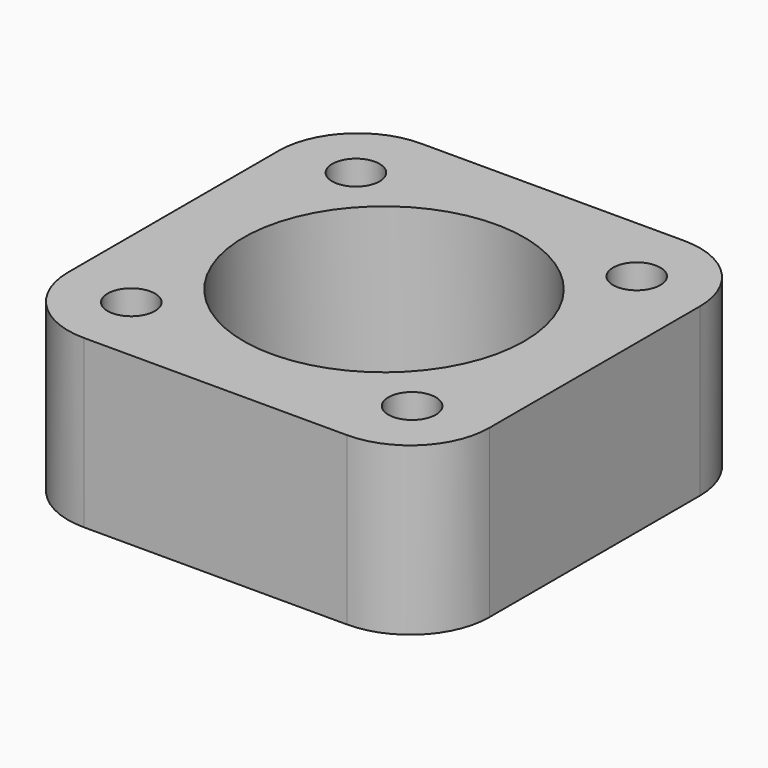
from build123d import *

# Parameters (mm, degrees)
F0_W     = 24
F0_H     = 24
F1_DEPTH = 9.5
F2_R     = 4.5
F4_R     = 8
F5_DEPTH = 9.501
F3_R     = 1.35
F6_DEPTH = 9.501


with BuildPart() as f1:
    # F0 (on Top) → F1 (new body)
    with BuildSketch(Plane.XY):
        with Locations((12, 12)):
            Rectangle(F0_W, F0_H)
    extrude(amount=F1_DEPTH)

    # F2
    f2_edges = [f1.edges().sort_by_distance(p)[0] for p in [
        (0, 0, 4.75),
        (24, 0, 4.75),
        (24, 24, 4.75),
        (0, 24, 4.75),
    ]]
    fillet(f2_edges, radius=F2_R)

    # F4 (on face) → F5 (cut, through all)
    with BuildSketch(Plane.XY.offset(9.5)):
        with Locations((12, 12)):
            Circle(F4_R)
    extrude(amount=-F5_DEPTH, mode=Mode.SUBTRACT)

    # F3 (on face) → F6 (cut, through all)
    with BuildSketch(Plane.XY.offset(9.5)):
        with Locations((4, 4)):
            Circle(F3_R)
        with Locations((4, 20)):
            Circle(F3_R)
        with Locations((20, 4)):
            Circle(F3_R)
        with Locations((20, 20)):
            Circle(F3_R)
    extrude(amount=-F6_DEPTH, mode=Mode.SUBTRACT)


solid = f1.part
